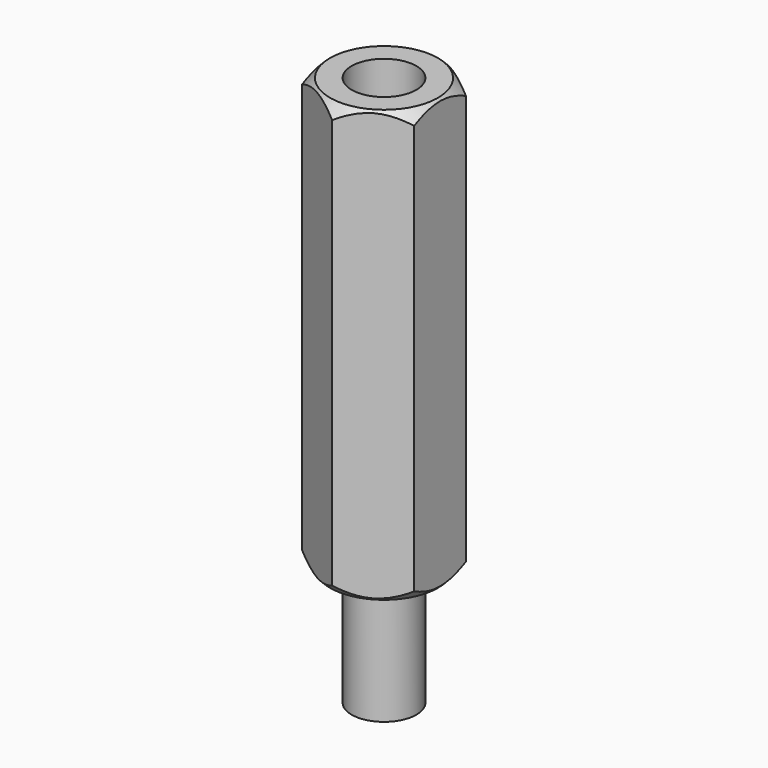
from build123d import *

# Parameters (mm, degrees)
PAD_DEPTH    = 10
SKETCH001_R  = 1.5
POCKET_DEPTH = 15
SKETCH002_R  = 1.5
PAD001_DEPTH = 5.5


with BuildPart() as part:
    # Sketch → Pad (new body, symmetric)
    with BuildSketch(Plane.XY):
        Polygon((2.6, 1.501111), (0, 3.002221), (-2.6, 1.501111), (-2.6, -1.501111), (0, -3.002221), (2.6, -1.501111), align=None)
    extrude(amount=PAD_DEPTH, both=True)

    # Sketch001 (on Face8 of Pad) → Pocket (cut)
    with BuildSketch(Plane.XY.offset(10)):
        Circle(SKETCH001_R)
    extrude(amount=-POCKET_DEPTH, mode=Mode.SUBTRACT)

    # Sketch002 (on Face4 of Pocket) → Pad001 (join)
    with BuildSketch(Plane(origin=(0, 0, -10), x_dir=(1, 0, 0), z_dir=(0, 0, -1))):
        Circle(SKETCH002_R)
    extrude(amount=PAD001_DEPTH)

    # Sketch004 → Groove (revolve, cut)
    with BuildSketch(Plane.YZ):
        Polygon((2, 10.5), (5, 10.5), (5, -10.5), (2, -10.5), (3.27, -9.23), (3.27, 9.23), align=None)
    revolve(axis=Axis((0, 0, 0), (0, 0, 1)), mode=Mode.SUBTRACT)


solid = part.part
